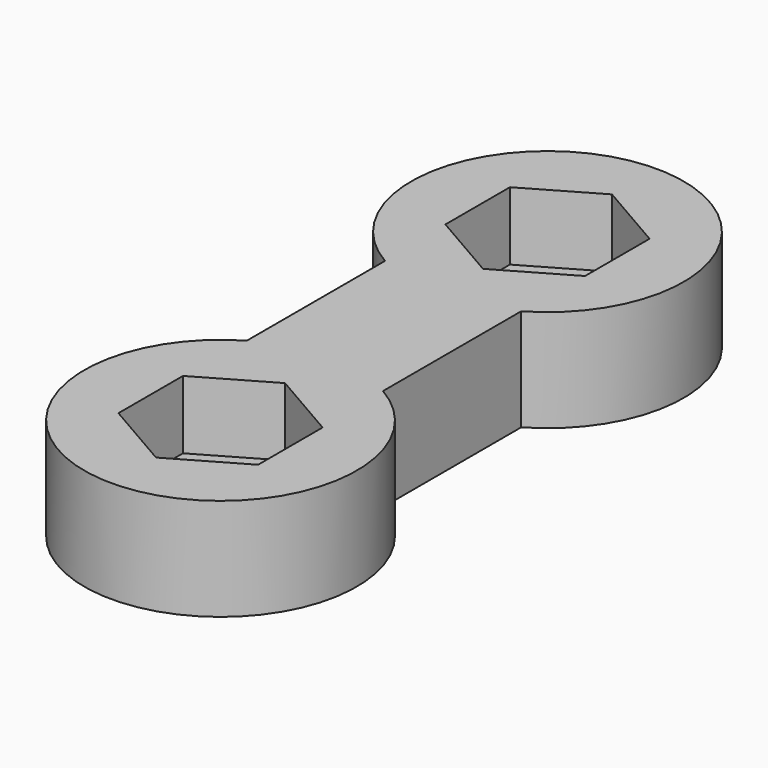
from build123d import *

# Parameters (mm, degrees)
PAD_DEPTH    = 2
SKETCH002_R  = 1.3
POCKET_DEPTH = 3.415102
PAD001_DEPTH = 1


with BuildPart() as part:
    # Sketch → Pad (new body)
    with BuildSketch(Plane.XY):
        with BuildLine():
            ThreePointArc((2, -3.464102), (0, 4), (-2, -3.464102))
            Line((-2, -6), (-2, -3.464102))
            Line((-2, -6), (-2, -8.535898))
            ThreePointArc((-2, -8.535898), (0, -16), (2, -8.535898))
            Line((2, -8.535898), (2, -6))
            Line((2, -3.464102), (2, -6))
        make_face()
        Polygon((0, 2.367136), (-2.05, 1.183568), (-2.05, -1.183568), (0, -2.367136), (2.05, -1.183568), (2.05, 1.183568), align=None, mode=Mode.SUBTRACT)
        Polygon((0, -14.367136), (-2.05, -13.183568), (-2.05, -10.816432), (0, -9.632864), (2.05, -10.816432), (2.05, -13.183568), align=None, mode=Mode.SUBTRACT)
    extrude(amount=PAD_DEPTH)

    # Sketch002 → Pocket (cut, through all)
    with BuildSketch(Plane(origin=(6.221152, -10.775352, 0), x_dir=(-0.866025, -0.5, 0), z_dir=(-0.5, 0.866025, 0))):
        Circle(SKETCH002_R)
    extrude(amount=-POCKET_DEPTH, mode=Mode.SUBTRACT)

    # Sketch003 → Pad001 (join)
    with BuildSketch(Plane.XY):
        with BuildLine():
            ThreePointArc((2, -3.464102), (0, 4), (-2, -3.464102))
            Line((-2, -6), (-2, -3.464102))
            Line((-2, -6), (-2, -8.535898))
            ThreePointArc((-2, -8.535898), (0, -16), (2, -8.535898))
            Line((2, -8.535898), (2, -6))
            Line((2, -3.464102), (2, -6))
        make_face()
    extrude(amount=-PAD001_DEPTH)


solid = part.part
